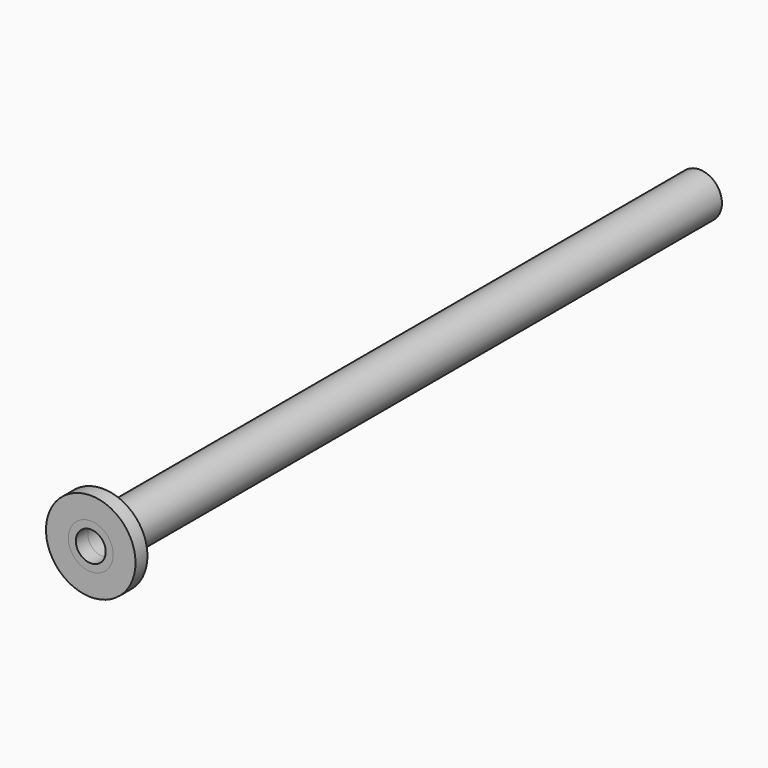
from build123d import *

# Parameters (mm, degrees)
F0_R     = 1.5
F1_DEPTH = 50
F2_R     = 1
F3_DEPTH = 50.001
F4_R     = 1.5
F4_R_2   = 1
F5_R     = 3
F5_R_2   = 1.5
F6_DEPTH = 1


with BuildPart() as f1:
    # F0 (on Front) → F1 (new body)
    with BuildSketch(Plane.XZ):
        Circle(F0_R)
    extrude(amount=F1_DEPTH)

    # F2 (on face) → F3 (cut, through all)
    with BuildSketch(Plane.XZ.offset(50)):
        Circle(F2_R)
    extrude(amount=-F3_DEPTH, mode=Mode.SUBTRACT)

    # F4 (on face) + F5 (on face) → F6 (join)
    with BuildSketch(Plane.XZ.offset(50)):
        Circle(F4_R)
        Circle(F4_R_2, mode=Mode.SUBTRACT)
    with BuildSketch(Plane.XZ.offset(50)):
        Circle(F5_R)
        Circle(F5_R_2, mode=Mode.SUBTRACT)
    extrude(amount=F6_DEPTH)


solid = f1.part
